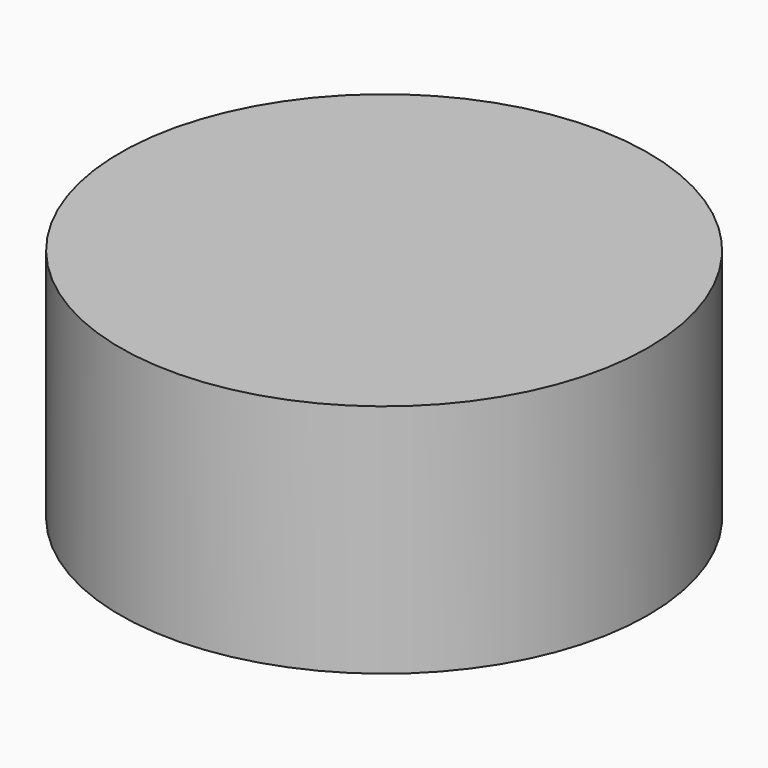
from build123d import *

# Parameters (mm, degrees)
CYLINDER_R     = 16.82115
CYLINDER_DEPTH = 15


with BuildPart() as part:
    # Cylinder → Cylinder (new body)
    with BuildSketch(Plane.XY.offset(-2.5)):
        Circle(CYLINDER_R)
    extrude(amount=CYLINDER_DEPTH)


solid = part.part
